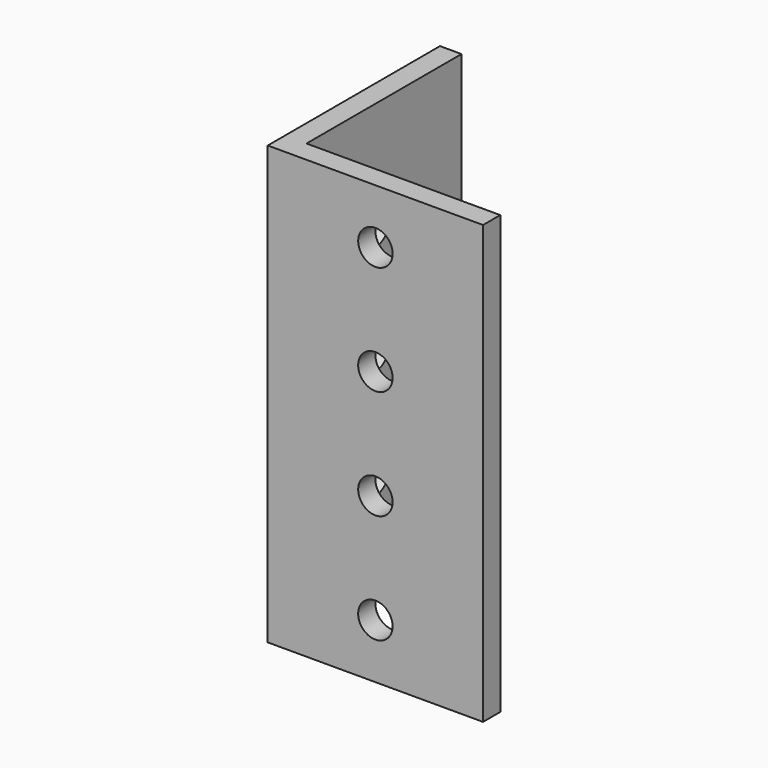
from build123d import *

# Parameters (mm, degrees)
F1_DEPTH = 101.6
F2_R     = 4
F3_DEPTH = 25
F5_D     = 8


with BuildPart() as f1:
    # F0 (on Top) → F1 (new body)
    with BuildSketch(Plane.XY):
        Polygon((-45, 12.9268298003), (-50, 12.9268298003), (-50, -37.0731701997), (0, -37.0731701997), (0, -32.0731701997), (-45, -32.0731701997), align=None)
    extrude(amount=F1_DEPTH)

    # F2 (on face) → F3 (cut)
    with BuildSketch(Plane(origin=(-50, 0, 0), x_dir=(0, -1, 0), z_dir=(-1, 0, 0))):
        with Locations((12.0731701997, 76.2)):
            Circle(F2_R)
        with Locations((12.0731701997, 50.8)):
            Circle(F2_R)
        with Locations((12.0731701997, 25.4)):
            Circle(F2_R)
    extrude(amount=-F3_DEPTH, mode=Mode.SUBTRACT)

    # F5 (through all)
    with Locations(Plane.XZ.offset(37.0731701997)):
        with Locations((-25, 88.9), (-25, 63.5), (-25, 38.1), (-25, 12.7)):
            Hole(F5_D / 2)


solid = f1.part
